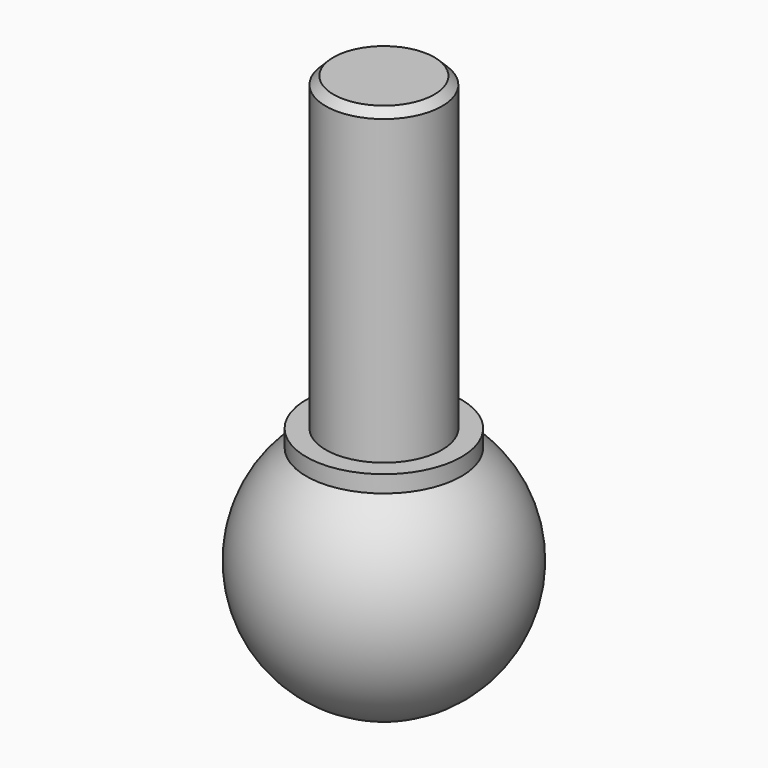
from build123d import *

# Parameters (mm, degrees)
F2_R     = 2
F3_DEPTH = 3
F4_R     = 1.5
F5_DEPTH = 8
F6_SIZE  = 0.2


with BuildPart() as f1:
    # F0 (on Right) → F1 (revolve)
    with BuildSketch(Plane.YZ):
        with BuildLine():
            Line((0, 3.25), (0, -3.25))
            ThreePointArc((0, -3.25), (3.25, 0), (0, 3.25))
        make_face()
    revolve(axis=Axis((0, 0, 0), (0, 0, -1)))

    # F2 (on Top) → F3 (join)
    with BuildSketch(Plane.XY):
        Circle(F2_R)
    extrude(amount=F3_DEPTH)

    # F4 (on face) → F5 (join)
    with BuildSketch(Plane.XY.offset(3)):
        Circle(F4_R)
    extrude(amount=F5_DEPTH)

    # F6
    f6_edges = [f1.edges().sort_by_distance(p)[0] for p in [
        (-1.5, 0, 11),
    ]]
    chamfer(f6_edges, length=F6_SIZE)


solid = f1.part
